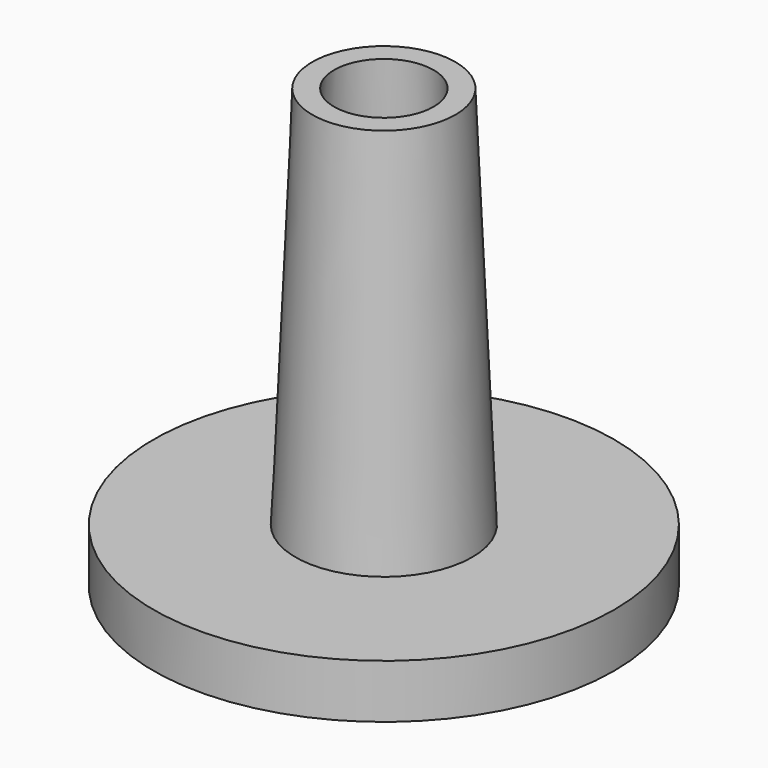
from build123d import *

# Parameters (mm, degrees)
F0_R     = 22.86
F1_DEPTH = 5.334
F2_R     = 8.763
F3_DEPTH = 38.1
F3_TAPER = 2.5
F4_T     = -2.159


with BuildPart() as f1:
    # F0 (on Top) → F1 (new body)
    with BuildSketch(Plane.XY):
        Circle(F0_R)
    extrude(amount=-F1_DEPTH)

    # F2 (on Top) → F3 (join)
    with BuildSketch(Plane.XY):
        Circle(F2_R)
    extrude(amount=F3_DEPTH, taper=F3_TAPER)

    # F4
    f4_openings = [f1.faces().sort_by_distance(p)[0] for p in [
        (0, 0, 38.1),
    ]]
    offset(amount=F4_T, openings=f4_openings, kind=Kind.INTERSECTION)


solid = f1.part
